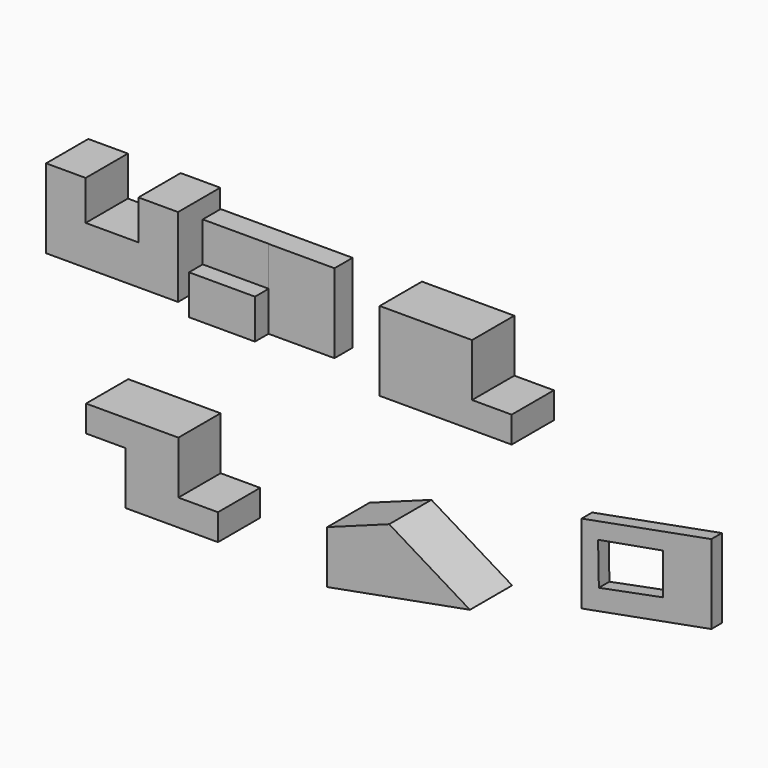
from build123d import *

# Parameters (mm, degrees)
F1_DEPTH  = 101.6
F2_W      = 254
F2_H      = 152.4
F3_DEPTH  = 76.2
F4_W      = 127
F4_H      = 32.576854
F5_DEPTH  = 152.4
F6_W      = 127
F6_H      = 76.2
F7_DEPTH  = 33.02
F8_W      = 50.8
F8_H      = 152.4
F9_DEPTH  = 101.6
F11_DEPTH = 101.6
F13_DEPTH = 101.6
F15_DEPTH = 25.4


with BuildPart() as f1:
    # F0 (on Front) → F1 (new body)
    with BuildSketch(Plane.XZ):
        Polygon((254, 0), (254, 152.4), (177.8, 152.4), (177.8, 76.2), (76.2, 76.2), (76.2, 152.4), (0, 152.4), (0, 0), align=None)
    extrude(amount=F1_DEPTH)


with BuildPart() as f3:
    # F2 (on Front) → F3 (new body)
    with BuildSketch(Plane.XZ):
        with Locations((381.808445, 40.258636)):
            Rectangle(F2_W, F2_H)
    extrude(amount=F3_DEPTH)

    # F4 (on face) → F5 (cut)
    with BuildSketch(Plane.XY.offset(116.458636)):
        with Locations((445.308445, -59.911573)):
            Rectangle(F4_W, F4_H)
    extrude(amount=-F5_DEPTH, mode=Mode.SUBTRACT)

    # F6 (on face) → F7 (cut)
    with BuildSketch(Plane.XZ.offset(76.2)):
        with Locations((318.308445, 78.358636)):
            Rectangle(F6_W, F6_H)
    extrude(amount=-F7_DEPTH, mode=Mode.SUBTRACT)


with BuildPart() as f9:
    # F8 (on Front) → F9 (new body)
    with BuildSketch(Plane.XZ):
        Polygon((820.055872, 119.54508), (693.055872, 119.54508), (693.055872, -32.85492), (896.255872, -32.85492), (896.255872, 17.94508), (820.055872, 17.94508), align=None)
        with Locations((667.655872, 43.34508)):
            Rectangle(F8_W, F8_H)
    extrude(amount=F9_DEPTH)


with BuildPart() as f11:
    # F10 (on Front) → F11 (new body)
    with BuildSketch(Plane.XZ):
        Polygon((254.68887, -229.662478), (76.88887, -229.662478), (76.88887, -280.462478), (153.08887, -280.462478), (153.08887, -382.062478), (330.88887, -382.062478), (330.88887, -331.262478), (254.68887, -331.262478), align=None)
    extrude(amount=F11_DEPTH)


with BuildPart() as f13:
    # F12 (on Front) → F13 (new body)
    with BuildSketch(Plane.XZ):
        Polygon((660.466036, -244.411736), (541.216353, -288.098267), (541.216353, -389.698267), (815.95936, -338.898267), align=None)
    extrude(amount=F13_DEPTH)


with BuildPart() as f15:
    # F14 (on Front) → F15 (new body)
    with BuildSketch(Plane.XZ):
        Polygon((1219.741796, -271.194316), (1219.741796, -118.794316), (970.009744, -165.161352), (970.009744, -317.561352), align=None)
        Polygon((1003.159642, -271.662861), (1001.652837, -190.73011), (1126.696877, -168.526778), (1126.696877, -247.750873), align=None, mode=Mode.SUBTRACT)
    extrude(amount=F15_DEPTH)


solid = Compound([f1.part, f3.part, f9.part, f11.part, f13.part, f15.part])
